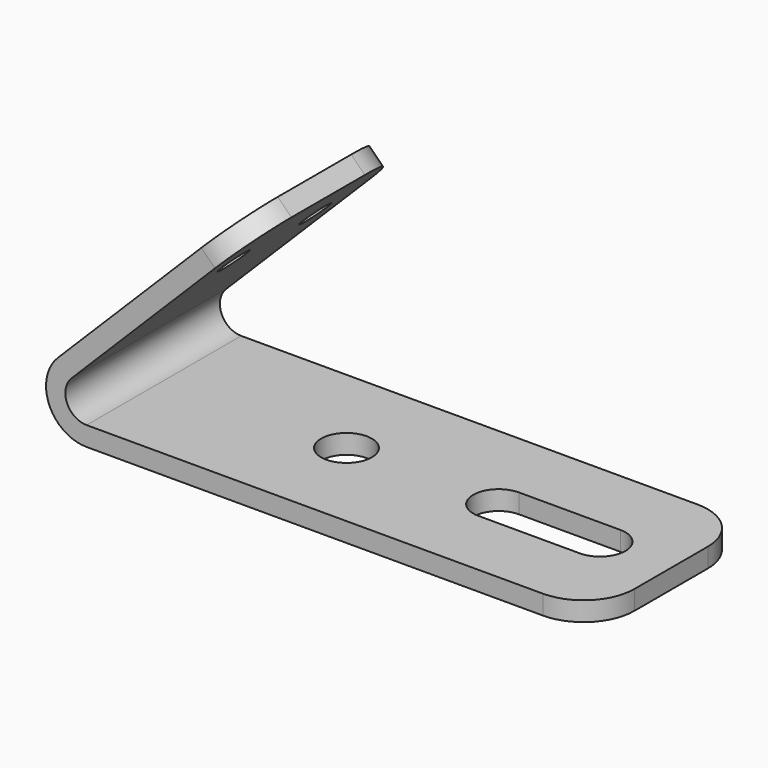
from build123d import *

# Parameters (mm, degrees)
F1_DEPTH = 483.87
F2_R     = 38.1
F3_DEPTH = 48.26
F4_R     = 63.5
F5_DEPTH = 48.261
F6_R     = 127


with BuildPart() as f1:
    # F0 (on Front) → F1 (new body)
    with BuildSketch(Plane.XZ):
        with BuildLine():
            Line((-556.3015167441, 0), (713.6984832559, 0))
            Line((713.6984832559, 0), (713.6984832559, 48.26))
            Line((713.6984832559, 48.26), (-556.3015167441, 48.26))
            ThreePointArc((-556.3015167441, 48.26), (-605.5812510083, 81.1876657176), (-594.0185924526, 139.3170757085))
            Line((-594.0185924526, 139.3170757085), (-145.0057863992, 588.3298817619))
            Line((-145.0057863992, 588.3298817619), (-179.1307596592, 622.454855022))
            Line((-179.1307596592, 622.454855022), (-628.1435657127, 173.4420489685))
            ThreePointArc((-628.1435657127, 173.4420489685), (-650.1676772473, 62.7193632717), (-556.3015167441, 0))
        make_face()
    extrude(amount=F1_DEPTH)

    # F2 (on face) → F3 (cut, through all)
    with BuildSketch(Plane(origin=(-400.7928073406, 0, 400.7928073406), x_dir=(0, -1, 0), z_dir=(-0.7071067812, 0, 0.7071067812))):
        with Locations((114.3, 122.9774740944)):
            Circle(F2_R)
        with Locations((369.57, 122.9774740944)):
            Circle(F2_R)
    extrude(amount=-F3_DEPTH, mode=Mode.SUBTRACT)

    # F4 (on face) → F5 (cut, through all)
    with BuildSketch(Plane.XY.offset(48.26)):
        with BuildLine():
            Line((281.8984832559, -305.435), (535.8984832559, -305.435))
            ThreePointArc((535.8984832559, -305.435), (599.3984832559, -241.935), (535.8984832559, -178.435))
            Line((535.8984832559, -178.435), (281.8984832559, -178.435))
            ThreePointArc((281.8984832559, -178.435), (218.3984832559, -241.935), (281.8984832559, -305.435))
        make_face()
        with Locations((-99.1015167441, -241.935)):
            Circle(F4_R)
    extrude(amount=-F5_DEPTH, mode=Mode.SUBTRACT)

    # F6
    f6_edges = [f1.edges().sort_by_distance(p)[0] for p in [
        (713.698483, -483.87, 24.13),
        (713.698483, 0, 24.13),
        (-162.068273, 0, 605.392368),
        (-162.068273, -483.87, 605.392368),
    ]]
    fillet(f6_edges, radius=F6_R)


solid = f1.part
